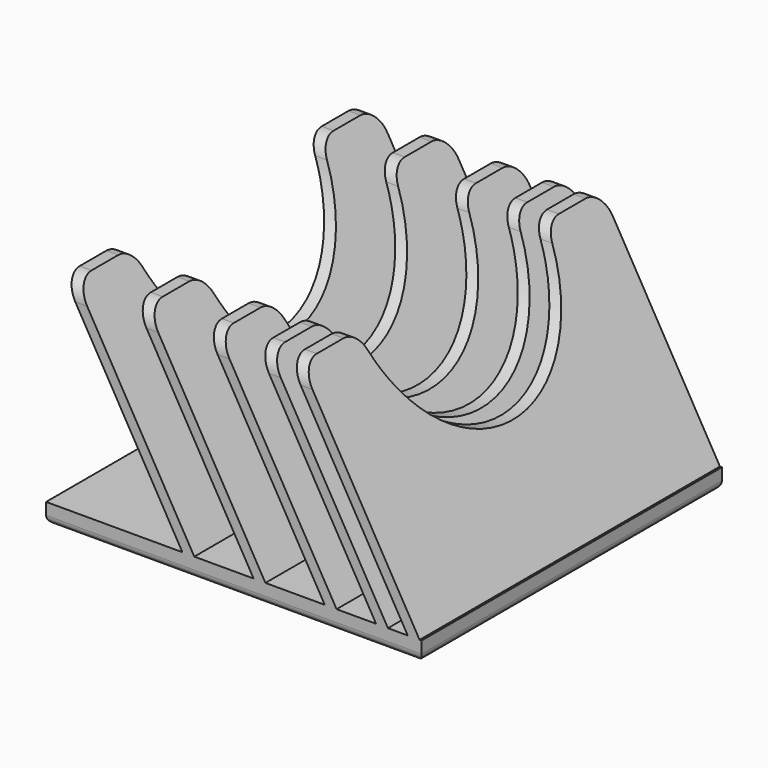
from build123d import *

# Parameters (mm, degrees)
SKETCH026_W     = 95
SKETCH026_H     = 95
PAD018_DEPTH    = 5
PAD019_DEPTH    = 95
SKETCH028_R     = 30
POCKET008_DEPTH = 95.001
FILLET020_R     = 5
FILLET021_R     = 2


with BuildPart() as part:
    # Sketch026 → Pad018 (new body)
    with BuildSketch(Plane.XY):
        Rectangle(SKETCH026_W, SKETCH026_H)
    extrude(amount=PAD018_DEPTH)

    # Sketch027 (on DatumPlane) → Pad019 (join)
    with BuildSketch(Plane(origin=(0, 47.5, 0), x_dir=(-1, 0, 0), z_dir=(0, 1, 0))):
        Polygon((-47, 5), (-17, 56.961524), (-14, 56.961524), (-44, 5), align=None)
        Polygon((-39, 5), (-9, 56.961524), (-6, 56.961524), (-36, 5), align=None)
        Polygon((-26, 5), (4, 56.961524), (7, 56.961524), (-23, 5), align=None)
        Polygon((-8, 5), (22, 56.961524), (25, 56.961524), (-5, 5), align=None)
        Polygon((10, 5), (40, 56.961524), (43, 56.961524), (13, 5), align=None)
    extrude(amount=-PAD019_DEPTH)

    # Sketch028 (on DatumPlane) → Pocket008 (cut, through all)
    with BuildSketch(Plane.YZ.offset(47.5)):
        with Locations((0, 60)):
            Circle(SKETCH028_R)
    extrude(amount=-POCKET008_DEPTH, mode=Mode.SUBTRACT)

    # Fillet020
    fillet020_edges = [part.edges().sort_by_distance(p)[0] for p in [
        (15.5, -47.5, 56.961524),
        (15.5, -29.845731, 56.961524),
        (7.5, -47.5, 56.961524),
        (7.5, -29.845731, 56.961524),
        (-5.5, -47.5, 56.961524),
        (-5.5, -29.845731, 56.961524),
        (-23.5, -47.5, 56.961524),
        (-23.5, -29.845731, 56.961524),
        (-41.5, -47.5, 56.961524),
        (-41.5, -29.845731, 56.961524),
        (15.5, 29.845731, 56.961524),
        (15.5, 47.5, 56.961524),
        (7.5, 29.845731, 56.961524),
        (7.5, 47.5, 56.961524),
        (-5.5, 29.845731, 56.961524),
        (-5.5, 47.5, 56.961524),
        (-23.5, 29.845731, 56.961524),
        (-23.5, 47.5, 56.961524),
        (-41.5, 29.845731, 56.961524),
        (-41.5, 47.5, 56.961524),
    ]]
    fillet(fillet020_edges, radius=FILLET020_R)

    # Fillet021
    fillet021_edges = [part.edges().sort_by_distance(p)[0] for p in [
        (0, 47.5, 0),
        (47.5, 0, 0),
        (0, -47.5, 0),
        (-47.5, 0, 0),
    ]]
    fillet(fillet021_edges, radius=FILLET021_R)


with BuildPart() as part_1:
    # Body012 placement: moved
    add(part.part.moved(Location((-47, 233, 0))))


solid = part_1.part
